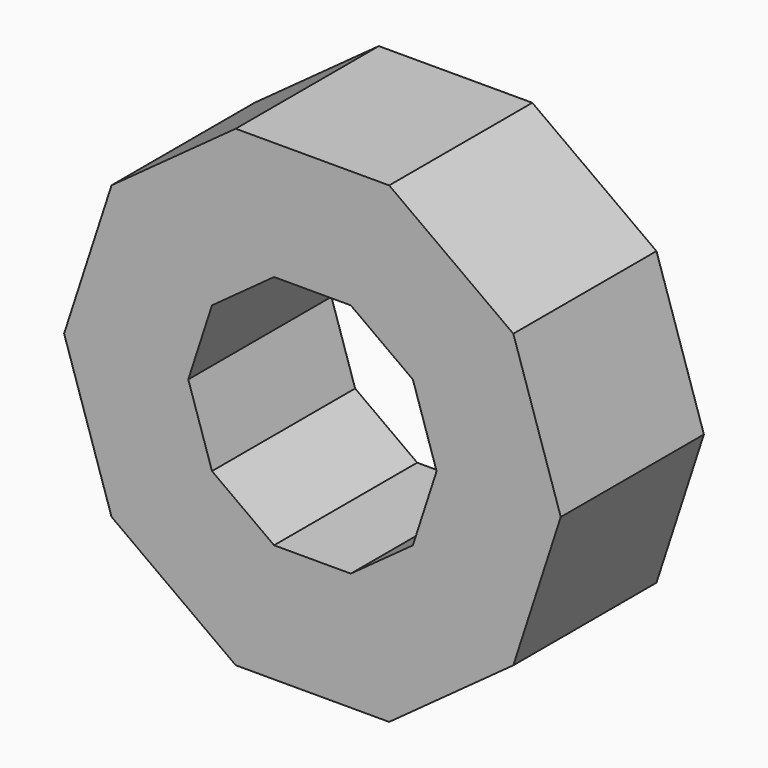
from build123d import *

# Parameters (mm, degrees)
F1_DEPTH = 25.4


with BuildPart() as f1:
    # F0 (on Front) → F1 (new body)
    with BuildSketch(Plane.XZ):
        Polygon((10.893908, 33.528), (0, 33.528), (-10.893908, 33.528), (-28.52062, 20.721444), (-35.253425, 0), (-28.52062, -20.721444), (-10.893908, -33.528), (10.893908, -33.528), (28.52062, -20.721444), (35.253425, 0), (28.52062, 20.721444), align=None)
        Polygon((-5.446954, 16.764), (0, 16.764), (5.446954, 16.764), (14.26031, 10.360722), (17.626713, 0), (14.26031, -10.360722), (5.446954, -16.764), (-5.446954, -16.764), (-14.26031, -10.360722), (-17.626713, 0), (-14.26031, 10.360722), align=None, mode=Mode.SUBTRACT)
    extrude(amount=F1_DEPTH)


solid = f1.part
